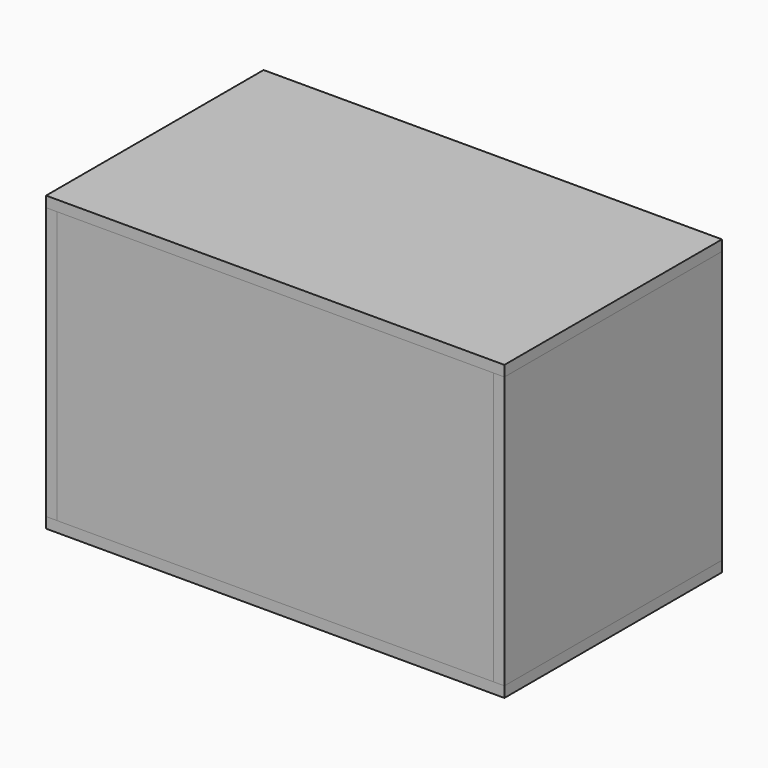
from build123d import *

# Parameters (mm, degrees)
BOX_W        = 500
BOX_H        = 520
BOX_DEPTH    = 520
BOX001_W     = 944
BOX001_H     = 560
BOX001_DEPTH = 22
BOX002_W     = 944
BOX002_H     = 560
BOX002_DEPTH = 22
BOX003_W     = 22
BOX003_H     = 560
BOX003_DEPTH = 560
BOX004_W     = 22
BOX004_H     = 560
BOX004_DEPTH = 560
BOX005_W     = 900
BOX005_H     = 22
BOX005_DEPTH = 560
BOX006_W     = 900
BOX006_H     = 22
BOX006_DEPTH = 560


with BuildPart() as cube:
    # Box → Box (new body)
    with BuildSketch(Plane(origin=(-250, -260, 42), x_dir=(1, 0, 0), z_dir=(0, 0, 1))):
        with Locations((250, 260)):
            Rectangle(BOX_W, BOX_H)
    extrude(amount=BOX_DEPTH)


with BuildPart() as cube001:
    # Box001 → Box001 (new body)
    with BuildSketch(Plane(origin=(-472, -280, 0), x_dir=(1, 0, 0), z_dir=(0, 0, 1))):
        with Locations((472, 280)):
            Rectangle(BOX001_W, BOX001_H)
    extrude(amount=BOX001_DEPTH)


with BuildPart() as cube002:
    # Box002 → Box002 (new body)
    with BuildSketch(Plane(origin=(-472, -280, 582), x_dir=(1, 0, 0), z_dir=(0, 0, 1))):
        with Locations((472, 280)):
            Rectangle(BOX002_W, BOX002_H)
    extrude(amount=BOX002_DEPTH)


with BuildPart() as cube003:
    # Box003 → Box003 (new body)
    with BuildSketch(Plane(origin=(-472, -280, 22), x_dir=(1, 0, 0), z_dir=(0, 0, 1))):
        with Locations((11, 280)):
            Rectangle(BOX003_W, BOX003_H)
    extrude(amount=BOX003_DEPTH)


with BuildPart() as cube004:
    # Box004 → Box004 (new body)
    with BuildSketch(Plane(origin=(450, -280, 22), x_dir=(1, 0, 0), z_dir=(0, 0, 1))):
        with Locations((11, 280)):
            Rectangle(BOX004_W, BOX004_H)
    extrude(amount=BOX004_DEPTH)


with BuildPart() as cube005:
    # Box005 → Box005 (new body)
    with BuildSketch(Plane(origin=(-450, 258, 22), x_dir=(1, 0, 0), z_dir=(0, 0, 1))):
        with Locations((450, 11)):
            Rectangle(BOX005_W, BOX005_H)
    extrude(amount=BOX005_DEPTH)


with BuildPart() as cube006:
    # Box006 → Box006 (new body)
    with BuildSketch(Plane(origin=(-450, -280, 22), x_dir=(1, 0, 0), z_dir=(0, 0, 1))):
        with Locations((450, 11)):
            Rectangle(BOX006_W, BOX006_H)
    extrude(amount=BOX006_DEPTH)


solid = Compound([cube.part, cube001.part, cube002.part, cube003.part, cube004.part, cube005.part, cube006.part])
